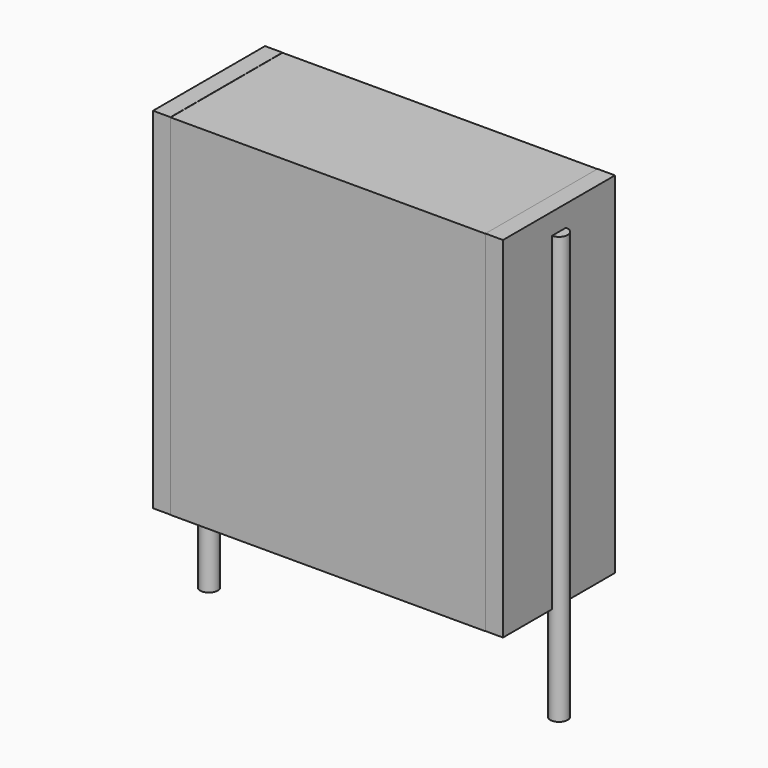
from build123d import *

# Parameters (mm, degrees)
SKETCH_W          = 9
SKETCH_H          = 4
PAD_DEPTH         = 10
SKETCH001_R       = 0.25
PAD001_DEPTH      = 9
PAD001_DEPTH_BACK = 3.2
SKETCH002_W       = 0.5
SKETCH002_H       = 4
PAD002_DEPTH      = 10


with BuildPart() as pad:
    # Sketch → Pad (new body)
    with BuildSketch(Plane.XY.offset(0.1)):
        with Locations((5, 0)):
            Rectangle(SKETCH_W, SKETCH_H)
    extrude(amount=PAD_DEPTH)


with BuildPart() as pad001:
    # Sketch001 → Pad001 (new body, two sides)
    with BuildSketch(Plane.XY.offset(0.5)) as pad001_sk:
        Circle(SKETCH001_R)
        with Locations((10, 0)):
            Circle(SKETCH001_R)
    extrude(amount=PAD001_DEPTH)
    extrude(pad001_sk.sketch, amount=-PAD001_DEPTH_BACK)


with BuildPart() as pad002:
    # Sketch002 → Pad002 (new body)
    with BuildSketch(Plane.XY.offset(0.105)):
        with Locations((0.25, 0)):
            Rectangle(SKETCH002_W, SKETCH002_H)
        with Locations((9.75, 0)):
            Rectangle(SKETCH002_W, SKETCH002_H)
    extrude(amount=PAD002_DEPTH)


solid = Compound([pad.part, pad001.part, pad002.part])
